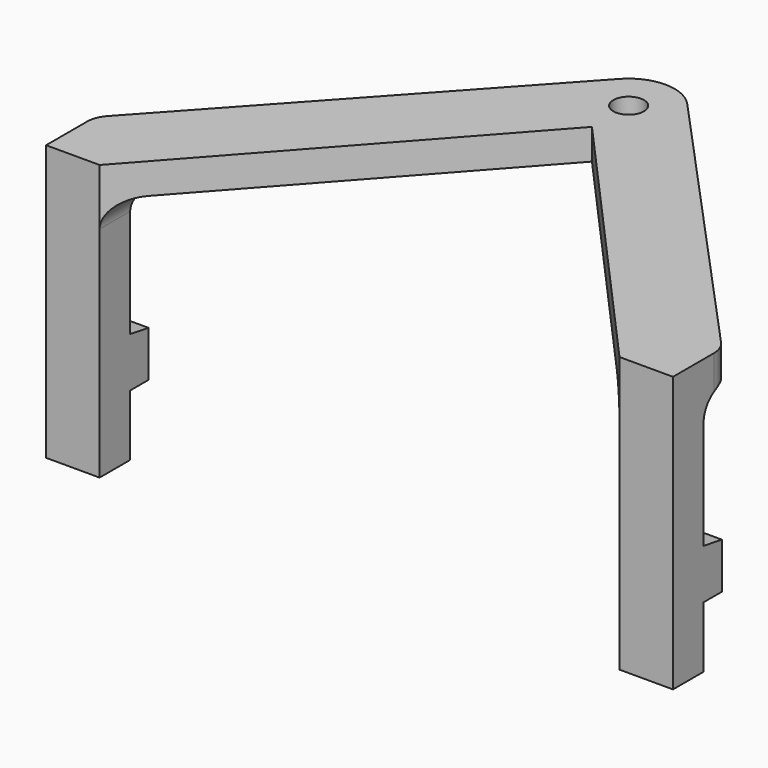
from build123d import *

# Parameters (mm, degrees)
F0_W           = 3.5
F0_H           = 4
F1_DEPTH       = 2
F2_D           = 2
F2_CBORE_D     = 3.5
F2_CBORE_DEPTH = 0.8
F3_DEPTH       = 12
F5_DEPTH       = 41.001
F6_R           = 1.6899494937
F7_W           = 3.5
F7_H           = 2.5
F8_DEPTH       = 4


with BuildPart() as f1:
    # F0 (on Top) → F1 (new body)
    with BuildSketch(Plane.XY):
        with BuildLine():
            Line((-17, 0), (0, 19))
            ThreePointArc((0, 19), (-2.7448989049, 20.7894092344), (-2.2152995112, 24.0229799988))
            Line((-2.2152995112, 24.0229799988), (-20.5, 4))
            Line((-20.5, 4), (-17, 4))
            Line((-17, 4), (-17, 0))
        make_face()
        with BuildLine():
            ThreePointArc((0, 19), (2.1213203436, 19.8786796564), (3, 22))
            ThreePointArc((3, 22), (2.7969535689, 23.0849196898), (2.2152995112, 24.0229799988))
            ThreePointArc((2.2152995112, 24.0229799988), (0, 25), (-2.2152995112, 24.0229799988))
            ThreePointArc((-2.2152995112, 24.0229799988), (-2.7448989049, 20.7894092344), (0, 19))
        make_face()
        with BuildLine():
            ThreePointArc((2.2152995112, 24.0229799988), (2.7969535689, 23.0849196898), (3, 22))
            ThreePointArc((3, 22), (2.1213203436, 19.8786796564), (0, 19))
            Line((0, 19), (17, 0))
            Line((17, 0), (17, 4))
            Line((17, 4), (20.5, 4))
            Line((20.5, 4), (2.2152995112, 24.0229799988))
        make_face()
        with Locations((-18.75, 2)):
            Rectangle(F0_W, F0_H)
        with Locations((18.75, 2)):
            Rectangle(F0_W, F0_H)
    extrude(amount=F1_DEPTH)

    # F2 (through all)
    with Locations(Plane(origin=(0, 0, 0), x_dir=(1, 0, 0), z_dir=(0, 0, -1))):
        with Locations((0, -22)):
            CounterBoreHole(F2_D / 2, F2_CBORE_D / 2, F2_CBORE_DEPTH)

    # F0 (on Top) → F3 (join)
    with BuildSketch(Plane.XY):
        with Locations((18.75, 2)):
            Rectangle(F0_W, F0_H)
        with Locations((-18.75, 2)):
            Rectangle(F0_W, F0_H)
    extrude(amount=-F3_DEPTH)

    # F4 (on face) → F5 (cut, through all)
    with BuildSketch(Plane.YZ.offset(20.5)):
        Polygon((4, -9), (4, 0), (2.5, 0), (2.5, -8.75), align=None)
    extrude(amount=-F5_DEPTH, mode=Mode.SUBTRACT)

    # F6 (call 1 of 4: OpenCascade refuses the feature's edges together)
    f6_edges = [f1.edges().sort_by_distance(p)[0] for p in [
        (20.5, 4, 1),
    ]]
    fillet(f6_edges, radius=F6_R)

    # F6#2 (call 2 of 4)
    f6_2_edges = [f1.edges().sort_by_distance(p)[0] for p in [
        (-20.5, 4, 1),
    ]]
    fillet(f6_2_edges, radius=F6_R)

    # F6#3 (call 3 of 4)
    f6_3_edges = [f1.edges().sort_by_distance(p)[0] for p in [
        (-17, 1.25, 0),
        (-18.75, 2.5, 0),
    ]]
    fillet(f6_3_edges, radius=F6_R)

    # F6#4 (call 4 of 4)
    f6_4_edges = [f1.edges().sort_by_distance(p)[0] for p in [
        (18.75, 2.5, 0),
        (17, 1.25, 0),
    ]]
    fillet(f6_4_edges, radius=F6_R)

    # F7 (on face) → F8 (join)
    with BuildSketch(Plane(origin=(0, 0, -12), x_dir=(1, 0, 0), z_dir=(0, 0, -1))):
        with Locations((18.75, -1.25)):
            Rectangle(F7_W, F7_H)
        with Locations((-18.75, -1.25)):
            Rectangle(F7_W, F7_H)
    extrude(amount=F8_DEPTH)


solid = f1.part
